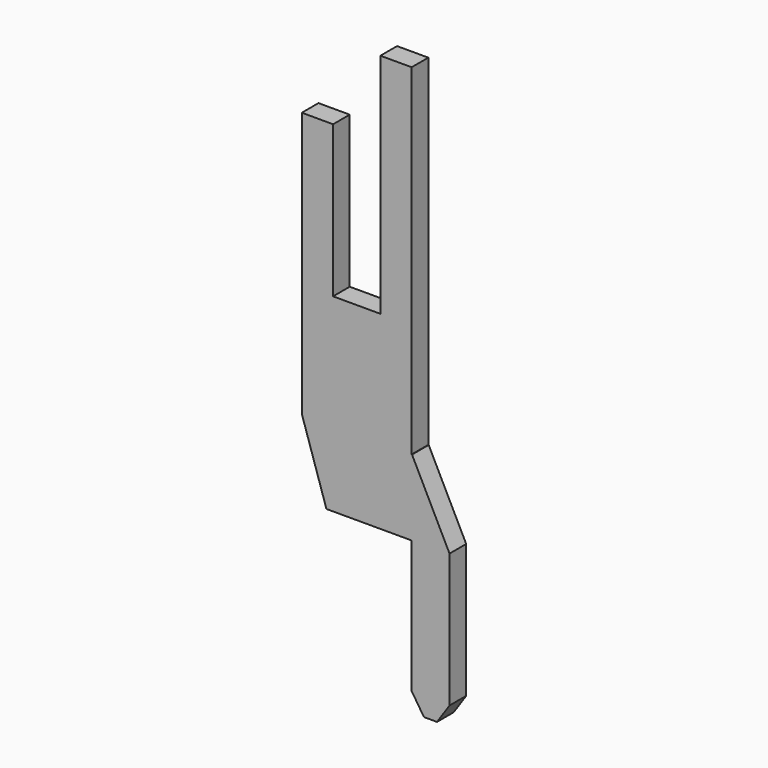
from build123d import *

# Parameters (mm, degrees)
BOX029_W                = 2.9
BOX029_H                = 0.55
BOX029_DEPTH            = 15
BOX030_W                = 1.25
BOX030_H                = 0.55
BOX030_DEPTH            = 6
BOX031_W                = 1.1
BOX031_H                = 0.6
BOX031_DEPTH            = 2
BOX033_W                = 1
BOX033_H                = 0.55
BOX033_DEPTH            = 6
BOX032_W                = 3
BOX032_H                = 0.55
BOX032_DEPTH            = 4
CHAMFER010_SIZE2        = 0.65
CHAMFER010_SIZE         = 2
CHAMFER011_ANGLE        = 33
CHAMFER011_SIZE         = 0.5
CHAMFER013_ANGLE        = 56
CHAMFER013_SIZE         = 0.33
CHAMFER012_ANGLE        = 26.565
CHAMFER012_SIZE         = 1.98
BODY021_PLACEMENT_ANGLE = 180


with BuildPart() as part:
    # Box029 → Box029 (join)
    with BuildSketch(Plane(origin=(-4.95, -0.275, 0), x_dir=(1, 0, 0), z_dir=(0, 0, 1))):
        with Locations((1.45, 0.275)):
            Rectangle(BOX029_W, BOX029_H)
    extrude(amount=BOX029_DEPTH)

    # Box030 → Box030 (cut)
    with BuildSketch(Plane(origin=(-4.125, -0.275, 9), x_dir=(1, 0, 0), z_dir=(0, 0, 1))):
        with Locations((0.625, 0.275)):
            Rectangle(BOX030_W, BOX030_H)
    extrude(amount=BOX030_DEPTH, mode=Mode.SUBTRACT)

    # Box031 → Box031 (cut)
    with BuildSketch(Plane(origin=(-3, -0.3, 13), x_dir=(1, 0, 0), z_dir=(0, 0, 1))):
        with Locations((0.55, 0.3)):
            Rectangle(BOX031_W, BOX031_H)
    extrude(amount=BOX031_DEPTH, mode=Mode.SUBTRACT)

    # Box033 → Box033 (join)
    with BuildSketch(Plane(origin=(-5.95, -0.275, 0), x_dir=(1, 0, 0), z_dir=(0, 0, 1))):
        with Locations((0.5, 0.275)):
            Rectangle(BOX033_W, BOX033_H)
    extrude(amount=BOX033_DEPTH)

    # Box032 → Box032 (cut)
    with BuildSketch(Plane(origin=(-4.95, 0.275, 4), x_dir=(1, 0, 0), z_dir=(0, 0, -1))):
        with Locations((1.5, 0.275)):
            Rectangle(BOX032_W, BOX032_H)
    extrude(amount=BOX032_DEPTH, mode=Mode.SUBTRACT)

    # Chamfer010
    chamfer010_edges = [part.edges().sort_by_distance(p)[0] for p in [
        (-2.05, 0, 4),
    ]]
    chamfer010_side = part.faces().sort_by_distance((-2.05, 0, 8.5))[0]
    chamfer(chamfer010_edges, length=CHAMFER010_SIZE, length2=CHAMFER010_SIZE2, reference=chamfer010_side)

    # Chamfer011
    chamfer011_edges = [part.edges().sort_by_distance(p)[0] for p in [
        (-4.95, 0, 0),
    ]]
    chamfer011_side = part.faces().sort_by_distance((-4.95, 0, 2))[0]
    chamfer(chamfer011_edges, length=CHAMFER011_SIZE, angle=CHAMFER011_ANGLE, reference=chamfer011_side)

    # Chamfer013
    chamfer013_edges = [part.edges().sort_by_distance(p)[0] for p in [
        (-5.95, 0, 0),
    ]]
    chamfer013_side = part.faces().sort_by_distance((-5.612352, 0, 0))[0]
    chamfer(chamfer013_edges, length=CHAMFER013_SIZE, angle=CHAMFER013_ANGLE, reference=chamfer013_side)

    # Chamfer012
    chamfer012_edges = [part.edges().sort_by_distance(p)[0] for p in [
        (-5.95, 0, 6),
    ]]
    chamfer012_side = part.faces().sort_by_distance((-5.95, 0, 3.244623))[0]
    chamfer(chamfer012_edges, length=CHAMFER012_SIZE, angle=CHAMFER012_ANGLE, reference=chamfer012_side)


with BuildPart() as part_1:
    # Body021 placement: moved
    add(part.part.moved(Location((0, 0, -4))).rotate(Axis((0, 0, -4), (0, 0, 1)), BODY021_PLACEMENT_ANGLE))


solid = part_1.part
